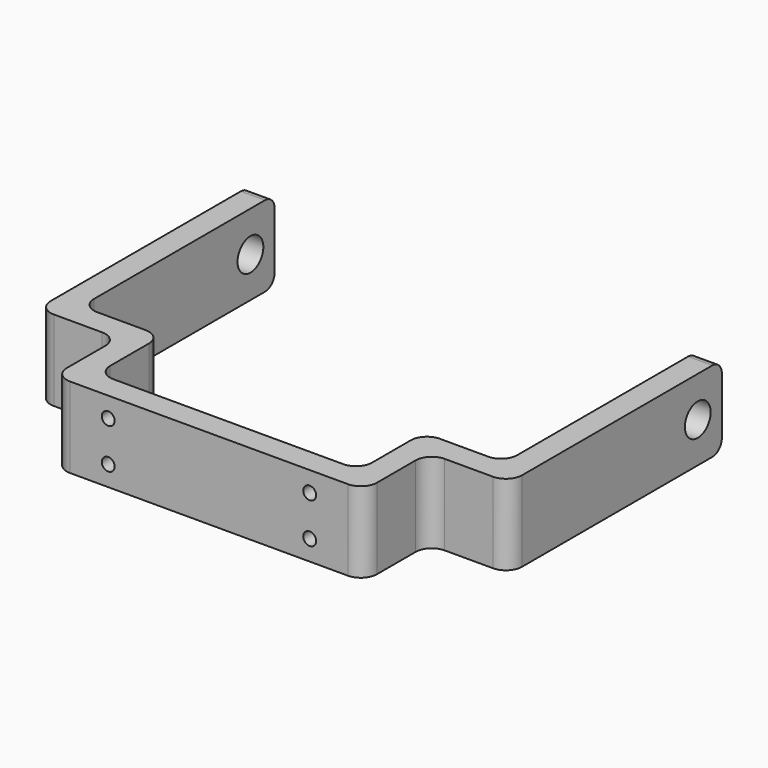
from build123d import *

# Parameters (mm, degrees)
PAD_DEPTH       = 20
SKETCH001_R     = 1.6
POCKET_DEPTH    = 6
SKETCH002_R     = 4
POCKET001_DEPTH = 117.001
FILLET_R        = 4
FILLET001_R     = 4
FILLET002_R     = 4
FILLET003_R     = 3


with BuildPart() as part:
    # Sketch → Pad (new body)
    with BuildSketch(Plane.XY):
        Polygon((38.5, 0), (-38.5, 0), (-38.5, 20), (-58.5, 20), (-58.5, 86), (-52.5, 86), (-52.5, 26), (-32.5, 26), (-32.5, 6), (32.5, 6), (32.5, 26), (52.5, 26), (52.5, 86), (58.5, 86), (58.5, 20), (38.5, 20), align=None)
    extrude(amount=PAD_DEPTH)

    # Sketch001 (on Face9 of Pad) → Pocket (cut)
    with BuildSketch(Plane(origin=(0, 6, 0), x_dir=(-1, 0, 0), z_dir=(0, 1, 0))):
        with Locations((-25, 15)):
            Circle(SKETCH001_R)
        with Locations((-25, 5)):
            Circle(SKETCH001_R)
        with Locations((25, 15)):
            Circle(SKETCH001_R)
        with Locations((25, 5)):
            Circle(SKETCH001_R)
    extrude(amount=-POCKET_DEPTH, mode=Mode.SUBTRACT)

    # Sketch002 (on Face22 of Pocket) → Pocket001 (cut, through all)
    with BuildSketch(Plane.YZ.offset(58.5)):
        with Locations((78.5, 10)):
            Circle(SKETCH002_R)
    extrude(amount=-POCKET001_DEPTH, mode=Mode.SUBTRACT)

    # Fillet
    fillet_edges = [part.edges().sort_by_distance(p)[0] for p in [
        (-32.5, 6, 10),
        (52.5, 26, 10),
        (32.5, 6, 10),
        (-52.5, 26, 10),
    ]]
    fillet(fillet_edges, radius=FILLET_R)

    # Fillet001
    fillet001_edges = [part.edges().sort_by_distance(p)[0] for p in [
        (32.5, 26, 10),
        (-32.5, 26, 10),
        (-58.5, 20, 10),
        (-38.5, 0, 10),
        (58.5, 20, 10),
        (38.5, 0, 10),
    ]]
    fillet(fillet001_edges, radius=FILLET001_R)

    # Fillet002
    fillet002_edges = [part.edges().sort_by_distance(p)[0] for p in [
        (38.5, 20, 10),
        (-38.5, 20, 10),
    ]]
    fillet(fillet002_edges, radius=FILLET002_R)

    # Fillet003
    fillet003_edges = [part.edges().sort_by_distance(p)[0] for p in [
        (55.5, 86, 0),
        (-55.5, 86, 0),
        (55.5, 86, 20),
        (-55.5, 86, 20),
    ]]
    fillet(fillet003_edges, radius=FILLET003_R)


solid = part.part
